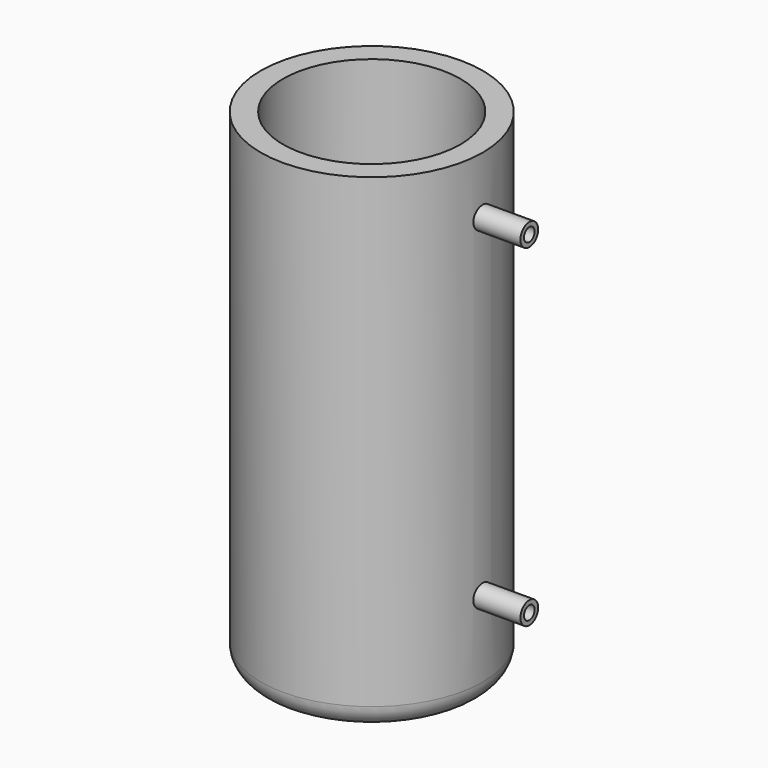
from build123d import *

# Parameters (mm, degrees)
F0_R          = 63.5
F1_DEPTH      = 279.4
F2_T          = -12.7
F3_R          = 6.35
F4_DEPTH      = 279.401
F6_DEPTH      = 50.8
F7_R          = 6.35
F7_R_2        = 3.81
F8_DEPTH      = 25.4
F8_DEPTH_BACK = 5.08
F9_R          = 12.7


with BuildPart() as f1:
    # F0 (on Top) → F1 (new body)
    with BuildSketch(Plane.XY):
        with Locations((-64.736634, 44.41886)):
            Circle(F0_R)
    extrude(amount=F1_DEPTH)

    # F2
    f2_openings = [f1.faces().sort_by_distance(p)[0] for p in [
        (-64.736634, 44.41886, 279.4),
    ]]
    offset(amount=F2_T, openings=f2_openings)

    # F3 (on face) → F4 (cut, through all)
    with BuildSketch(Plane(origin=(0, 0, 0), x_dir=(1, 0, 0), z_dir=(0, 0, -1))):
        with Locations((-26.847913, -40.412018)):
            Circle(F3_R)
    extrude(amount=-F4_DEPTH, mode=Mode.SUBTRACT)

    # F5 (on Right) → F6 (cut)
    with BuildSketch(Plane.YZ):
        with BuildLine():
            ThreePointArc((44.45, 62.627283), (39.959872, 51.787155), (50.8, 56.277283))
            ThreePointArc((50.8, 56.277283), (48.940128, 60.767411), (44.45, 62.627283))
        make_face()
        with BuildLine():
            ThreePointArc((50.8, 246.777283), (39.959872, 251.267411), (44.45, 240.427283))
            ThreePointArc((44.45, 240.427283), (48.940128, 242.287155), (50.8, 246.777283))
        make_face()
    extrude(amount=-F6_DEPTH, mode=Mode.SUBTRACT)

    # F7 (on Right) → F8 (join, two sides)
    with BuildSketch(Plane.YZ) as f8_sk:
        with Locations((44.45, 246.777283)):
            Circle(F7_R)
        with Locations((44.45, 246.777283)):
            Circle(F7_R_2, mode=Mode.SUBTRACT)
        with Locations((44.45, 56.277283)):
            Circle(F7_R)
        with Locations((44.45, 56.277283)):
            Circle(F7_R_2, mode=Mode.SUBTRACT)
    extrude(amount=F8_DEPTH)
    extrude(f8_sk.sketch, amount=-F8_DEPTH_BACK)

    # F9
    f9_edges = [f1.edges().sort_by_distance(p)[0] for p in [
        (-128.236634, 44.41886, 0),
    ]]
    fillet(f9_edges, radius=F9_R)


solid = f1.part
